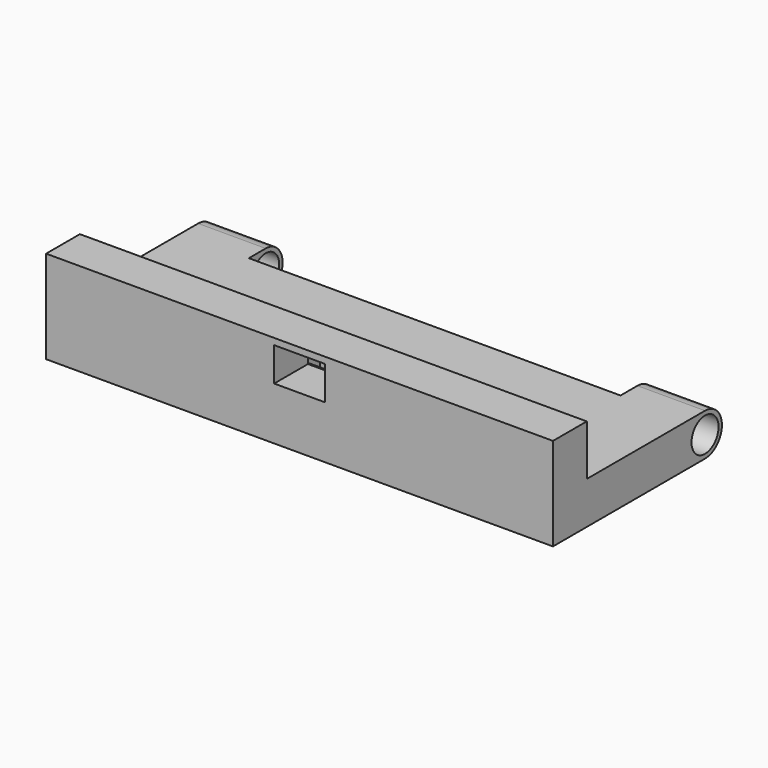
from build123d import *

# Parameters (mm, degrees)
F0_W      = 76.2
F0_H      = 25.4
F2_DEPTH  = 6.35
F1_W      = 20.0991295278
F1_H      = 7.4727535248
F3_DEPTH  = 6.35
F4_W      = 10.16
F4_H      = 6.35
F5_DEPTH  = 19.05
F6_R      = 2.54
F7_DEPTH  = 76.2
F8_DEPTH  = 76.2
F10_DEPTH = 27.94
F11_W     = 76.2
F11_H     = 6.35
F12_DEPTH = 13.97
F13_W     = 7.62
F13_H     = 5.08
F14_DEPTH = 25.4
F15_DEPTH = 190.5


with BuildPart() as f2:
    # F0 (on Top) → F2 (new body)
    with BuildSketch(Plane.XY):
        Rectangle(F0_W, F0_H)
    extrude(amount=F2_DEPTH)

    # F1 (on Top) → F3 (cut)
    with BuildSketch(Plane.XY):
        Rectangle(F1_W, F1_H)
    extrude(amount=F3_DEPTH, mode=Mode.SUBTRACT)

    # F4 (on Front) → F5 (join)
    with BuildSketch(Plane.XZ):
        with Locations((33.02, 3.175)):
            Rectangle(F4_W, F4_H)
        with Locations((-33.02, 3.175)):
            Rectangle(F4_W, F4_H)
    extrude(amount=-F5_DEPTH)

    # F6 (on face) → F7 (cut)
    with BuildSketch(Plane(origin=(-38.1, 0, 0), x_dir=(0, -1, 0), z_dir=(-1, 0, 0))):
        with Locations((-15.875, 3.175)):
            Circle(F6_R)
    extrude(amount=-F7_DEPTH, mode=Mode.SUBTRACT)

    # F6 (on face) → F8 (cut)
    with BuildSketch(Plane(origin=(-38.1, 0, 0), x_dir=(0, -1, 0), z_dir=(-1, 0, 0))):
        with BuildLine():
            Line((-19.05, 0), (-15.875, 0))
            ThreePointArc((-15.875, 0), (-18.1200640303, 0.9299359697), (-19.05, 3.175))
            Line((-19.05, 3.175), (-19.05, 0))
        make_face()
        with BuildLine():
            ThreePointArc((-19.05, 3.175), (-18.1200640229, 5.4200640376), (-15.8749999792, 6.35))
            Line((-15.8749999792, 6.35), (-19.05, 6.35))
            Line((-19.05, 6.35), (-19.05, 3.175))
        make_face()
    extrude(amount=-F8_DEPTH, mode=Mode.SUBTRACT)

    # F9 (on Right) → F10 (cut, symmetric)
    with BuildSketch(Plane.YZ):
        with BuildLine():
            ThreePointArc((12.7, 6.35), (9.525, 3.175), (12.7, 0))
            Line((12.7, 0), (12.7, 6.35))
        make_face()
    extrude(amount=F10_DEPTH, both=True, mode=Mode.SUBTRACT)

    # F11 (on Top) → F12 (join)
    with BuildSketch(Plane.XY):
        with Locations((0, -9.525)):
            Rectangle(F11_W, F11_H)
    extrude(amount=F12_DEPTH)

    # F13 (on face) → F14 (join)
    with BuildSketch(Plane.XZ.offset(12.7)):
        with Locations((0, 10.4701574892)):
            Rectangle(F13_W, F13_H)
    extrude(amount=F14_DEPTH)

    # F15 (cut, symmetric): a face of the model
    f15_faces = [f2.faces().sort_by_distance(p)[0] for p in [
        (0, -38.1, 10.4701574892),
    ]]
    extrude(f15_faces, amount=F15_DEPTH, both=True, mode=Mode.SUBTRACT)


solid = f2.part
